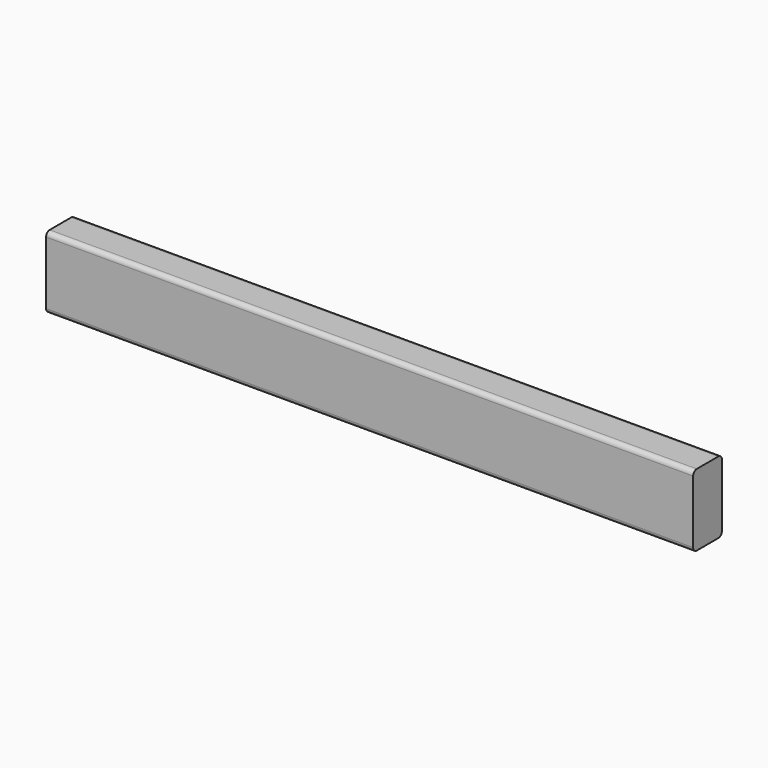
from build123d import *

# Parameters (mm, degrees)
F0_W     = 50.8
F0_H     = 101.6
F1_DEPTH = 457.2
F2_R     = 6.35


with BuildPart() as f1:
    # F0 (on Right) → F1 (new body, symmetric)
    with BuildSketch(Plane.YZ):
        Rectangle(F0_W, F0_H)
    extrude(amount=F1_DEPTH, both=True)

    # F2
    f2_edges = [f1.edges().sort_by_distance(p)[0] for p in [
        (0, -25.4, -50.8),
        (0, 25.4, -50.8),
        (0, -25.4, 50.8),
        (0, 25.4, 50.8),
    ]]
    fillet(f2_edges, radius=F2_R)


solid = f1.part
